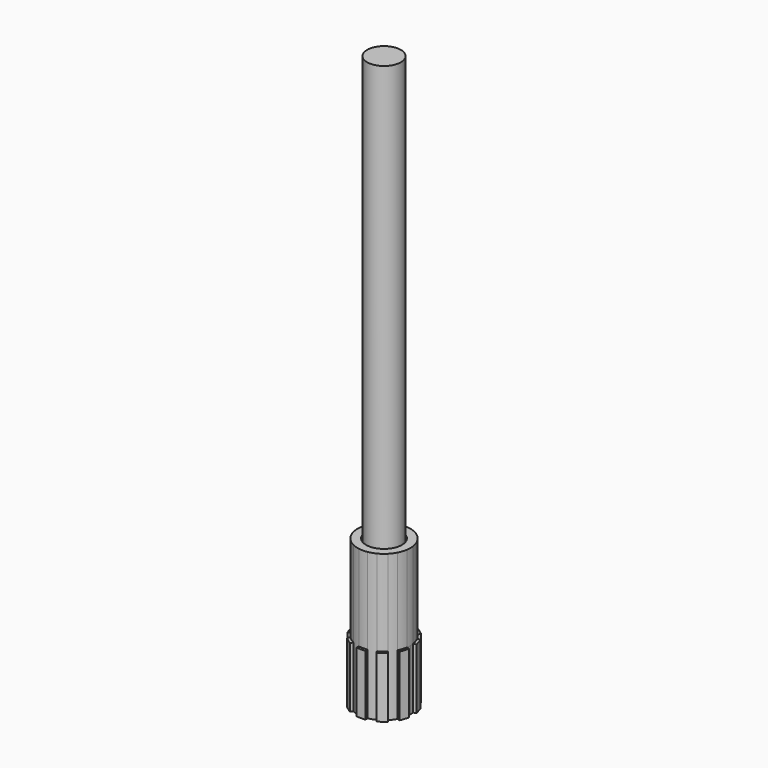
from build123d import *

# Parameters (mm, degrees)
F1_DEPTH = 89.408
F3_DEPTH = 127
F4_R     = 26.4523902525
F5_DEPTH = 129.54
F6_R     = 24.9101946144
F7_DEPTH = 756.92


with BuildPart() as f1:
    # F0 (on Top) → F1 (new body)
    with BuildSketch(Plane.XY):
        with BuildLine():
            Line((-15.273936304, 32.1706210337), (-17.2163408372, 34.8441115156))
            ThreePointArc((-17.2163408372, 34.8441115156), (-22.8444725114, 31.4427189474), (-27.8185774117, 27.1411357522))
            Line((-27.8185774117, 27.1411357522), (-25.8761728785, 24.4676452704))
            Line((-25.8761728785, 24.4676452704), (-15.273936304, 32.1706210337))
        make_face()
        with BuildLine():
            ThreePointArc((-27.8185774117, 27.1411357522), (-22.8444725114, 31.4427189474), (-17.2163408372, 34.8441115156))
            Line((-17.2163408372, 34.8441115156), (-19.8127721444, 38.4177926245))
            Line((-19.8127721444, 38.4177926245), (-30.4150087189, 30.7148168611))
            Line((-30.4150087189, 30.7148168611), (-27.8185774117, 27.1411357522))
        make_face()
        with BuildLine():
            ThreePointArc((-38.458861211, 5.6062905278), (-36.9631329786, 12.0100499392), (-34.4091671964, 18.0699671274))
            Line((-34.4091671964, 18.0699671274), (-38.6102813008, 19.4349918461))
            Line((-38.6102813008, 19.4349918461), (-42.6599753155, 6.9713152465))
            Line((-42.6599753155, 6.9713152465), (-38.458861211, 5.6062905278))
        make_face()
        with BuildLine():
            Line((-31.2662906416, 17.048784632), (-34.4091671964, 18.0699671274))
            ThreePointArc((-34.4091671964, 18.0699671274), (-36.9631329786, 12.0100499392), (-38.458861211, 5.6062905278))
            Line((-38.458861211, 5.6062905278), (-35.3159846563, 4.5851080324))
            Line((-35.3159846563, 4.5851080324), (-31.2662906416, 17.048784632))
        make_face()
        with BuildLine():
            Line((-38.6102813008, -19.4349918461), (-34.4091671964, -18.0699671274))
            ThreePointArc((-34.4091671964, -18.0699671274), (-36.9631329786, -12.0100499392), (-38.458861211, -5.6062905278))
            Line((-38.458861211, -5.6062905278), (-42.6599753155, -6.9713152465))
            Line((-42.6599753155, -6.9713152465), (-38.6102813008, -19.4349918461))
        make_face()
        with BuildLine():
            ThreePointArc((-38.458861211, -5.6062905278), (-36.9631329786, -12.0100499392), (-34.4091671964, -18.0699671274))
            Line((-34.4091671964, -18.0699671274), (-31.2662906416, -17.048784632))
            Line((-31.2662906416, -17.048784632), (-35.3159846563, -4.5851080324))
            Line((-35.3159846563, -4.5851080324), (-38.458861211, -5.6062905278))
        make_face()
        with BuildLine():
            Line((-19.8127721444, -38.4177926245), (-17.2163408372, -34.8441115156))
            ThreePointArc((-17.2163408372, -34.8441115156), (-22.8444725114, -31.4427189474), (-27.8185774117, -27.1411357522))
            Line((-27.8185774117, -27.1411357522), (-30.4150087189, -30.7148168611))
            Line((-30.4150087189, -30.7148168611), (-19.8127721444, -38.4177926245))
        make_face()
        with BuildLine():
            ThreePointArc((-27.8185774117, -27.1411357522), (-22.8444725114, -31.4427189474), (-17.2163408372, -34.8441115156))
            Line((-17.2163408372, -34.8441115156), (-15.273936304, -32.1706210337))
            Line((-15.273936304, -32.1706210337), (-25.8761728785, -24.4676452704))
            Line((-25.8761728785, -24.4676452704), (-27.8185774117, -27.1411357522))
        make_face()
        with BuildLine():
            Line((6.5525425598, -42.7263023931), (6.5525425598, -38.3089896126))
            ThreePointArc((6.5525425598, -38.3089896126), (0, -38.8653380164), (-6.5525425598, -38.3089896126))
            Line((-6.5525425598, -38.3089896126), (-6.5525425598, -42.7263023931))
            Line((-6.5525425598, -42.7263023931), (6.5525425598, -42.7263023931))
        make_face()
        with BuildLine():
            Line((30.4150087189, -30.7148168611), (27.8185774117, -27.1411357522))
            ThreePointArc((27.8185774117, -27.1411357522), (22.8444725114, -31.4427189474), (17.2163408372, -34.8441115156))
            Line((17.2163408372, -34.8441115156), (19.8127721444, -38.4177926245))
            Line((19.8127721444, -38.4177926245), (30.4150087189, -30.7148168611))
        make_face()
        with BuildLine():
            ThreePointArc((17.2163408372, -34.8441115156), (22.8444725114, -31.4427189474), (27.8185774117, -27.1411357522))
            Line((27.8185774117, -27.1411357522), (25.8761728785, -24.4676452704))
            Line((25.8761728785, -24.4676452704), (15.273936304, -32.1706210337))
            Line((15.273936304, -32.1706210337), (17.2163408372, -34.8441115156))
        make_face()
        with BuildLine():
            ThreePointArc((34.4091671964, -18.0699671274), (36.9631329786, -12.0100499392), (38.458861211, -5.6062905278))
            Line((38.458861211, -5.6062905278), (35.3159846563, -4.5851080324))
            Line((35.3159846563, -4.5851080324), (31.2662906416, -17.048784632))
            Line((31.2662906416, -17.048784632), (34.4091671964, -18.0699671274))
        make_face()
        with BuildLine():
            Line((42.6599753155, -6.9713152465), (38.458861211, -5.6062905278))
            ThreePointArc((38.458861211, -5.6062905278), (36.9631329786, -12.0100499392), (34.4091671964, -18.0699671274))
            Line((34.4091671964, -18.0699671274), (38.6102813008, -19.4349918461))
            Line((38.6102813008, -19.4349918461), (42.6599753155, -6.9713152465))
        make_face()
        with BuildLine():
            Line((35.3159846563, 4.5851080324), (38.458861211, 5.6062905278))
            ThreePointArc((38.458861211, 5.6062905278), (36.9631329786, 12.0100499392), (34.4091671964, 18.0699671274))
            Line((34.4091671964, 18.0699671274), (31.2662906416, 17.048784632))
            Line((31.2662906416, 17.048784632), (35.3159846563, 4.5851080324))
        make_face()
        with BuildLine():
            ThreePointArc((34.4091671964, 18.0699671274), (36.9631329786, 12.0100499392), (38.458861211, 5.6062905278))
            Line((38.458861211, 5.6062905278), (42.6599753155, 6.9713152465))
            Line((42.6599753155, 6.9713152465), (38.6102813008, 19.4349918461))
            Line((38.6102813008, 19.4349918461), (34.4091671964, 18.0699671274))
        make_face()
        with BuildLine():
            Line((25.8761728785, 24.4676452704), (27.8185774117, 27.1411357522))
            ThreePointArc((27.8185774117, 27.1411357522), (22.8444725114, 31.4427189474), (17.2163408372, 34.8441115156))
            Line((17.2163408372, 34.8441115156), (15.273936304, 32.1706210337))
            Line((15.273936304, 32.1706210337), (25.8761728785, 24.4676452704))
        make_face()
        with BuildLine():
            ThreePointArc((17.2163408372, 34.8441115156), (22.8444725114, 31.4427189474), (27.8185774117, 27.1411357522))
            Line((27.8185774117, 27.1411357522), (30.4150087189, 30.7148168611))
            Line((30.4150087189, 30.7148168611), (19.8127721444, 38.4177926245))
            Line((19.8127721444, 38.4177926245), (17.2163408372, 34.8441115156))
        make_face()
        with BuildLine():
            Line((6.5525425598, 35.0043736398), (6.5525425598, 38.3089896126))
            ThreePointArc((6.5525425598, 38.3089896126), (0, 38.8653380164), (-6.5525425598, 38.3089896126))
            Line((-6.5525425598, 38.3089896126), (-6.5525425598, 35.0043736398))
            Line((-6.5525425598, 35.0043736398), (6.5525425598, 35.0043736398))
        make_face()
        with BuildLine():
            ThreePointArc((-6.5525425598, 38.3089896126), (0, 38.8653380164), (6.5525425598, 38.3089896126))
            Line((6.5525425598, 38.3089896126), (6.5525425598, 42.7263023931))
            Line((6.5525425598, 42.7263023931), (-6.5525425598, 42.7263023931))
            Line((-6.5525425598, 42.7263023931), (-6.5525425598, 38.3089896126))
        make_face()
        with BuildLine():
            ThreePointArc((-6.5525425598, -38.3089896126), (0, -38.8653380164), (6.5525425598, -38.3089896126))
            Line((6.5525425598, -38.3089896126), (6.5525425598, -35.0043736398))
            Line((6.5525425598, -35.0043736398), (-6.5525425598, -35.0043736398))
            Line((-6.5525425598, -35.0043736398), (-6.5525425598, -38.3089896126))
        make_face()
        with BuildLine():
            ThreePointArc((38.458861211, -5.6062905278), (38.7635856174, -2.8105033746), (38.8653380164, 0))
            ThreePointArc((38.8653380164, 0), (38.7635856174, 2.8105033746), (38.458861211, 5.6062905278))
            Line((38.458861211, 5.6062905278), (35.3159846563, 4.5851080324))
            Line((35.3159846563, 4.5851080324), (31.2662906416, 17.048784632))
            Line((31.2662906416, 17.048784632), (34.4091671964, 18.0699671274))
            ThreePointArc((34.4091671964, 18.0699671274), (31.4427189474, 22.8444725114), (27.8185774117, 27.1411357522))
            Line((27.8185774117, 27.1411357522), (25.8761728785, 24.4676452704))
            Line((25.8761728785, 24.4676452704), (15.273936304, 32.1706210337))
            Line((15.273936304, 32.1706210337), (17.2163408372, 34.8441115156))
            ThreePointArc((17.2163408372, 34.8441115156), (12.0100499392, 36.9631329786), (6.5525425598, 38.3089896126))
            Line((6.5525425598, 38.3089896126), (6.5525425598, 35.0043736398))
            Line((6.5525425598, 35.0043736398), (-6.5525425598, 35.0043736398))
            Line((-6.5525425598, 35.0043736398), (-6.5525425598, 38.3089896126))
            ThreePointArc((-6.5525425598, 38.3089896126), (-12.0100499392, 36.9631329786), (-17.2163408372, 34.8441115156))
            Line((-17.2163408372, 34.8441115156), (-15.273936304, 32.1706210337))
            Line((-15.273936304, 32.1706210337), (-25.8761728785, 24.4676452704))
            Line((-25.8761728785, 24.4676452704), (-27.8185774117, 27.1411357522))
            ThreePointArc((-27.8185774117, 27.1411357522), (-31.4427189474, 22.8444725114), (-34.4091671964, 18.0699671274))
            Line((-34.4091671964, 18.0699671274), (-31.2662906416, 17.048784632))
            Line((-31.2662906416, 17.048784632), (-35.3159846563, 4.5851080324))
            Line((-35.3159846563, 4.5851080324), (-38.458861211, 5.6062905278))
            ThreePointArc((-38.458861211, 5.6062905278), (-38.8653380164, 0), (-38.458861211, -5.6062905278))
            Line((-38.458861211, -5.6062905278), (-35.3159846563, -4.5851080324))
            Line((-35.3159846563, -4.5851080324), (-31.2662906416, -17.048784632))
            Line((-31.2662906416, -17.048784632), (-34.4091671964, -18.0699671274))
            ThreePointArc((-34.4091671964, -18.0699671274), (-31.4427189474, -22.8444725114), (-27.8185774117, -27.1411357522))
            Line((-27.8185774117, -27.1411357522), (-25.8761728785, -24.4676452704))
            Line((-25.8761728785, -24.4676452704), (-15.273936304, -32.1706210337))
            Line((-15.273936304, -32.1706210337), (-17.2163408372, -34.8441115156))
            ThreePointArc((-17.2163408372, -34.8441115156), (-12.0100499392, -36.9631329786), (-6.5525425598, -38.3089896126))
            Line((-6.5525425598, -38.3089896126), (-6.5525425598, -35.0043736398))
            Line((-6.5525425598, -35.0043736398), (6.5525425598, -35.0043736398))
            Line((6.5525425598, -35.0043736398), (6.5525425598, -38.3089896126))
            ThreePointArc((6.5525425598, -38.3089896126), (12.0100499392, -36.9631329786), (17.2163408372, -34.8441115156))
            Line((17.2163408372, -34.8441115156), (15.273936304, -32.1706210337))
            Line((15.273936304, -32.1706210337), (25.8761728785, -24.4676452704))
            Line((25.8761728785, -24.4676452704), (27.8185774117, -27.1411357522))
            ThreePointArc((27.8185774117, -27.1411357522), (31.4427189474, -22.8444725114), (34.4091671964, -18.0699671274))
            Line((34.4091671964, -18.0699671274), (31.2662906416, -17.048784632))
            Line((31.2662906416, -17.048784632), (35.3159846563, -4.5851080324))
            Line((35.3159846563, -4.5851080324), (38.458861211, -5.6062905278))
        make_face()
    extrude(amount=F1_DEPTH)

    # F2 (on face) → F3 (join)
    with BuildSketch(Plane.XY.offset(89.408)):
        with BuildLine():
            Line((38.458861211, 5.6062905278), (38.4706704839, 5.6101275932))
            ThreePointArc((38.4706704839, 5.6101275932), (36.974773258, 12.0138320953), (34.4209764692, 18.0738041928))
            Line((34.4209764692, 18.0738041928), (34.4091671964, 18.0699671274))
            ThreePointArc((34.4091671964, 18.0699671274), (31.4427189474, 22.8444725114), (27.8185774117, 27.1411357522))
            Line((27.8185774117, 27.1411357522), (27.8258759437, 27.1511813197))
            ThreePointArc((27.8258759437, 27.1511813197), (22.8516665997, 31.4526207605), (17.2236393692, 34.854157083))
            Line((17.2236393692, 34.854157083), (17.2163408372, 34.8441115156))
            ThreePointArc((17.2163408372, 34.8441115156), (12.0100499392, 36.9631329786), (6.5525425598, 38.3089896126))
            Line((6.5525425598, 38.3089896126), (6.5525425598, 38.3214066168))
            ThreePointArc((6.5525425598, 38.3214066168), (0, 38.8775773305), (-6.5525425598, 38.3214066168))
            Line((-6.5525425598, 38.3214066168), (-6.5525425598, 38.3089896126))
            ThreePointArc((-6.5525425598, 38.3089896126), (-12.0100499392, 36.9631329786), (-17.2163408372, 34.8441115156))
            Line((-17.2163408372, 34.8441115156), (-17.2236393692, 34.854157083))
            ThreePointArc((-17.2236393692, 34.854157083), (-22.8516665997, 31.4526207605), (-27.8258759437, 27.1511813197))
            Line((-27.8258759437, 27.1511813197), (-27.8185774117, 27.1411357522))
            ThreePointArc((-27.8185774117, 27.1411357522), (-31.4427189474, 22.8444725114), (-34.4091671964, 18.0699671274))
            Line((-34.4091671964, 18.0699671274), (-34.4209764692, 18.0738041928))
            ThreePointArc((-34.4209764692, 18.0738041928), (-36.974773258, 12.0138320953), (-38.4706704839, 5.6101275932))
            Line((-38.4706704839, 5.6101275932), (-38.458861211, 5.6062905278))
            ThreePointArc((-38.458861211, 5.6062905278), (-38.8653380164, 0), (-38.458861211, -5.6062905278))
            Line((-38.458861211, -5.6062905278), (-38.4706704839, -5.6101275932))
            ThreePointArc((-38.4706704839, -5.6101275932), (-36.974773258, -12.0138320953), (-34.4209764692, -18.0738041928))
            Line((-34.4209764692, -18.0738041928), (-34.4091671964, -18.0699671274))
            ThreePointArc((-34.4091671964, -18.0699671274), (-31.4427189474, -22.8444725114), (-27.8185774117, -27.1411357522))
            Line((-27.8185774117, -27.1411357522), (-27.8258759437, -27.1511813197))
            ThreePointArc((-27.8258759437, -27.1511813197), (-22.8516665997, -31.4526207605), (-17.2236393692, -34.854157083))
            Line((-17.2236393692, -34.854157083), (-17.2163408372, -34.8441115156))
            ThreePointArc((-17.2163408372, -34.8441115156), (-12.0100499392, -36.9631329786), (-6.5525425598, -38.3089896126))
            Line((-6.5525425598, -38.3089896126), (-6.5525425598, -38.3214066168))
            ThreePointArc((-6.5525425598, -38.3214066168), (0, -38.8775773305), (6.5525425598, -38.3214066168))
            Line((6.5525425598, -38.3214066168), (6.5525425598, -38.3089896126))
            ThreePointArc((6.5525425598, -38.3089896126), (12.0100499392, -36.9631329786), (17.2163408372, -34.8441115156))
            Line((17.2163408372, -34.8441115156), (17.2236393692, -34.854157083))
            ThreePointArc((17.2236393692, -34.854157083), (22.8516665997, -31.4526207605), (27.8258759437, -27.1511813197))
            Line((27.8258759437, -27.1511813197), (27.8185774117, -27.1411357522))
            ThreePointArc((27.8185774117, -27.1411357522), (31.4427189474, -22.8444725114), (34.4091671964, -18.0699671274))
            Line((34.4091671964, -18.0699671274), (34.4209764692, -18.0738041928))
            ThreePointArc((34.4209764692, -18.0738041928), (36.974773258, -12.0138320953), (38.4706704839, -5.6101275932))
            Line((38.4706704839, -5.6101275932), (38.458861211, -5.6062905278))
            ThreePointArc((38.458861211, -5.6062905278), (38.8653380164, 0), (38.458861211, 5.6062905278))
        make_face()
    extrude(amount=F3_DEPTH)

    # F4 (on face) → F5 (cut)
    with BuildSketch(Plane.XY.offset(216.408)):
        Circle(F4_R)
    extrude(amount=-F5_DEPTH, mode=Mode.SUBTRACT)

    # F6 (on face) → F7 (join)
    with BuildSketch(Plane.XY.offset(86.868)):
        Circle(F6_R)
    extrude(amount=F7_DEPTH)


solid = f1.part
